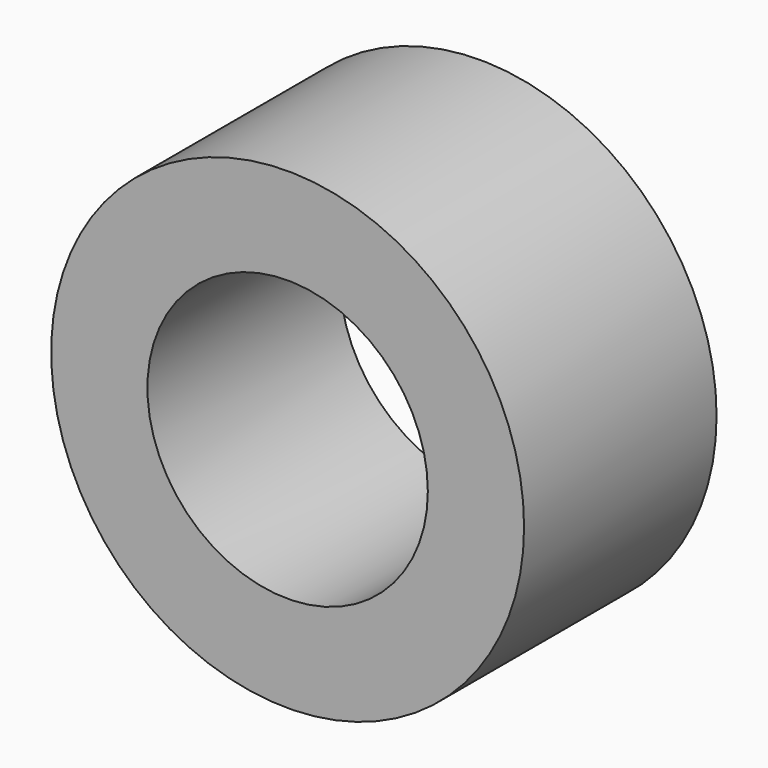
from build123d import *

# Parameters (mm, degrees)
F0_R     = 24.960695
F0_R_2   = 14.800695
F1_DEPTH = 25.4
F2_R     = 5.895959
F2_R_2   = 2.78156
F3_DEPTH = 25.4


with BuildPart() as f1:
    # F0 (on Front) → F1 (new body)
    with BuildSketch(Plane.XZ):
        Circle(F0_R)
        Circle(F0_R_2, mode=Mode.SUBTRACT)
    extrude(amount=F1_DEPTH)

    # F2 (on Front) → F3 (cut)
    with BuildSketch(Plane.XZ):
        Circle(F2_R)
        Circle(F2_R_2, mode=Mode.SUBTRACT)
    extrude(amount=-F3_DEPTH, mode=Mode.SUBTRACT)


solid = f1.part
